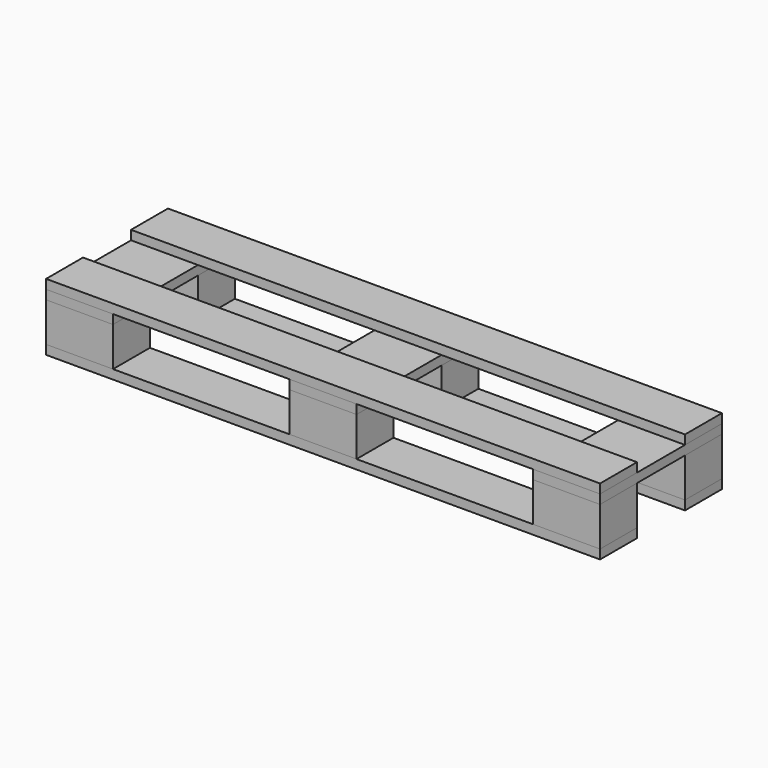
from build123d import *

# Parameters (mm, degrees)
F0_W     = 145
F0_H     = 330
F1_DEPTH = 20
F3_W     = 145
F3_H     = 100
F4_DEPTH = 85
F7_W     = 145
F7_H     = 100
F7_W_2   = 1055
F8_DEPTH = 20


with BuildPart() as f1:
    # F0 (on Top) → F1 (new body)
    with BuildSketch(Plane.XY):
        with Locations((72.5, 165)):
            Rectangle(F0_W, F0_H)
    extrude(amount=F1_DEPTH)


with BuildPart() as f2_1:
    # F2: copy of F1
    add(f1.part)


with BuildPart() as f4:
    # F3 (on Top) → F4 (new body)
    with BuildSketch(Plane.XY):
        with Locations((72.5, 50)):
            Rectangle(F3_W, F3_H)
    extrude(amount=-F4_DEPTH)


with BuildPart() as f6_1:
    # F6: copy of F4
    add(f4.part.moved(Location((0, 230, 0))))


with BuildPart() as f8:
    # F7 (on face) → F8 (new body)
    with BuildSketch(Plane.XY.offset(20)):
        with Locations((72.5, 50)):
            Rectangle(F7_W, F7_H)
        with Locations((672.5, 50)):
            Rectangle(F7_W_2, F7_H)
    extrude(amount=F8_DEPTH)


with BuildPart() as f9_1:
    # F9: copy of F8
    add(f8.part.moved(Location((0, 230, 0))))


with BuildPart() as f10_1:
    # F10: copy of F1
    add(f1.part.moved(Location((1055, 0, 0))))


with BuildPart() as f11_1:
    # F11: copy of F4
    add(f4.part.moved(Location((1055, 0, 0))))


with BuildPart() as f11_2:
    # F11: copy of F6_1
    add(f6_1.part.moved(Location((1055, 0, 0))))


with BuildPart() as f12_1:
    # F12: copy of F1
    add(f1.part.moved(Location((527.5, 0, 0))))


with BuildPart() as f12_2:
    # F12: copy of F4
    add(f4.part.moved(Location((527.5, 0, 0))))


with BuildPart() as f12_3:
    # F12: copy of F6_1
    add(f6_1.part.moved(Location((527.5, 0, 0))))


with BuildPart() as f13_1:
    # F13: copy of F8
    add(f8.part.moved(Location((0, 0, -125))))


with BuildPart() as f13_2:
    # F13: copy of F9_1
    add(f9_1.part.moved(Location((0, 0, -125))))


solid = Compound([f1.part, f4.part, f6_1.part, f8.part, f9_1.part, f10_1.part, f11_1.part, f11_2.part, f12_1.part, f12_2.part, f12_3.part, f13_1.part, f13_2.part])
